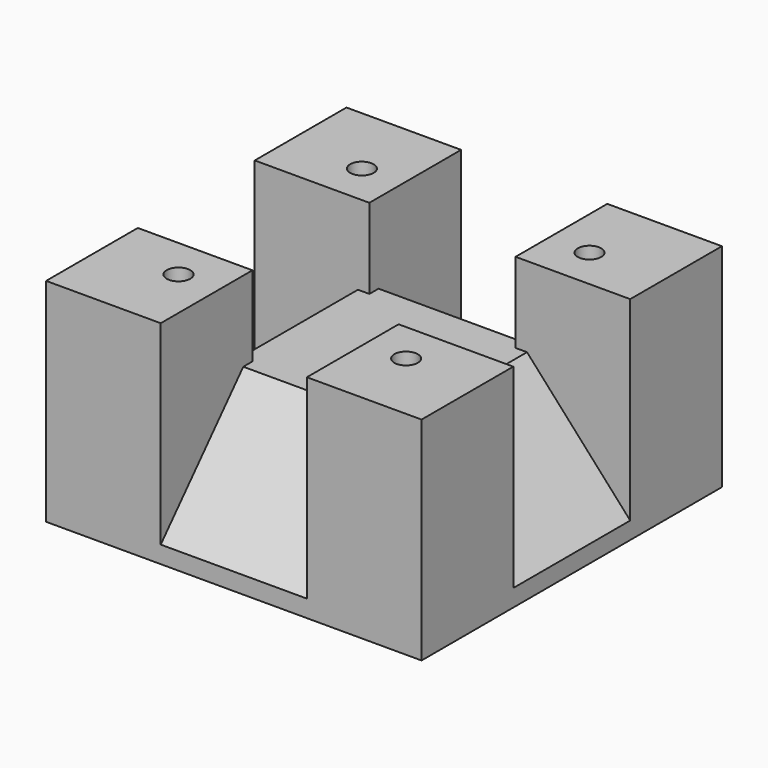
from build123d import *

# Parameters (mm, degrees)
SKETCH_W        = 65.5
SKETCH_H        = 65.5
PAD_DEPTH       = 37
SKETCH001_W     = 25.5
SKETCH001_H     = 14
POCKET_DEPTH    = 65.501
SKETCH002_W     = 25.5
SKETCH002_H     = 14
POCKET001_DEPTH = 65.501
CHAMFER_1_SIZE2 = 18
CHAMFER_1_SIZE  = 20
CHAMFER_2_SIZE2 = 18
CHAMFER_2_SIZE  = 20
CHAMFER_3_SIZE2 = 18
CHAMFER_3_SIZE  = 20
CHAMFER_4_SIZE2 = 18
CHAMFER_4_SIZE  = 20
SKETCH003_R     = 5
POCKET002_DEPTH = 2.5
SKETCH004_R     = 3.5
SKETCH004_R_2   = 2.45
PAD001_DEPTH    = 2
SKETCH005_R     = 2
POCKET003_DEPTH = 10
CHAMFER001_SIZE = 0.25
POCKET004_DEPTH = 3
SKETCH007_R     = 2.05
POCKET005_DEPTH = 12
POCKET006_DEPTH = 1.575
SKETCH009_R     = 2
POCKET007_DEPTH = 5


with BuildPart() as part:
    # Sketch → Pad (new body)
    with BuildSketch(Plane.XY):
        Rectangle(SKETCH_W, SKETCH_H)
    extrude(amount=PAD_DEPTH)

    # Sketch001 (on Face3 of Pad) → Pocket (cut, through all)
    with BuildSketch(Plane.XZ.offset(32.75)):
        with Locations((0, 30)):
            Rectangle(SKETCH001_W, SKETCH001_H)
    extrude(amount=-POCKET_DEPTH, mode=Mode.SUBTRACT)

    # Sketch002 (on Face9 of Pocket) → Pocket001 (cut, through all)
    with BuildSketch(Plane(origin=(-32.75, 0, 0), x_dir=(0, -1, 0), z_dir=(-1, 0, 0))):
        with Locations((0, 30)):
            Rectangle(SKETCH002_W, SKETCH002_H)
    extrude(amount=-POCKET001_DEPTH, mode=Mode.SUBTRACT)

    # Chamfer 1
    chamfer_1_edges = [part.edges().sort_by_distance(p)[0] for p in [
        (0, 32.75, 23),
    ]]
    chamfer_1_side = part.faces().sort_by_distance((0, 32.75, 16.513308))[0]
    chamfer(chamfer_1_edges, length=CHAMFER_1_SIZE, length2=CHAMFER_1_SIZE2, reference=chamfer_1_side)

    # Chamfer 2
    chamfer_2_edges = [part.edges().sort_by_distance(p)[0] for p in [
        (0, -32.75, 23),
    ]]
    chamfer_2_side = part.faces().sort_by_distance((0, -32.75, 16.513308))[0]
    chamfer(chamfer_2_edges, length=CHAMFER_2_SIZE, length2=CHAMFER_2_SIZE2, reference=chamfer_2_side)

    # Chamfer 3
    chamfer_3_edges = [part.edges().sort_by_distance(p)[0] for p in [
        (-32.75, 0, 23),
    ]]
    chamfer_3_side = part.faces().sort_by_distance((-32.75, 0, 16.513308))[0]
    chamfer(chamfer_3_edges, length=CHAMFER_3_SIZE, length2=CHAMFER_3_SIZE2, reference=chamfer_3_side)

    # Chamfer 4
    chamfer_4_edges = [part.edges().sort_by_distance(p)[0] for p in [
        (32.75, 0, 23),
    ]]
    chamfer_4_side = part.faces().sort_by_distance((32.75, 0, 16.513308))[0]
    chamfer(chamfer_4_edges, length=CHAMFER_4_SIZE, length2=CHAMFER_4_SIZE2, reference=chamfer_4_side)

    # Sketch003 (on Face7 of Chamfer) → Pocket002 (cut)
    with BuildSketch(Plane(origin=(0, 0, 0), x_dir=(1, 0, 0), z_dir=(0, 0, -1))):
        with Locations((-19.85, 20)):
            Circle(SKETCH003_R)
        with Locations((19.85, 20)):
            Circle(SKETCH003_R)
        with Locations((-19.85, -20)):
            Circle(SKETCH003_R)
        with Locations((19.85, -20)):
            Circle(SKETCH003_R)
    extrude(amount=-POCKET002_DEPTH, mode=Mode.SUBTRACT)

    # Sketch004 (on Face7 of Pocket002) → Pad001 (join)
    with BuildSketch(Plane(origin=(0, 0, 0), x_dir=(1, 0, 0), z_dir=(0, 0, -1))):
        with Locations((-19.85, 0)):
            Circle(SKETCH004_R)
        with Locations((19.85, 0)):
            Circle(SKETCH004_R_2)
    extrude(amount=PAD001_DEPTH)

    # Sketch005 (on Face34 of Pad001) → Pocket003 (cut)
    with BuildSketch(Plane(origin=(0, 0, -2), x_dir=(1, 0, 0), z_dir=(0, 0, -1))):
        with Locations((-19.85, 0)):
            Circle(SKETCH005_R)
        with Locations((19.85, 0)):
            Circle(SKETCH005_R)
    extrude(amount=-POCKET003_DEPTH, mode=Mode.SUBTRACT)

    # Chamfer001
    chamfer001_edges = [part.edges().sort_by_distance(p)[0] for p in [
        (-23.35, 0, -2),
        (17.4, 0, -2),
    ]]
    chamfer(chamfer001_edges, length=CHAMFER001_SIZE)

    # Sketch006 (on Face36 of Chamfer001) → Pocket004 (cut)
    with BuildSketch(Plane(origin=(0, 0, 8), x_dir=(1, 0, 0), z_dir=(0, 0, -1))):
        Polygon((-19.85, -4), (-16.385898, -2), (-16.385898, 2), (-19.85, 4), (-23.314102, 2), (-23.314102, -2), align=None)
        Polygon((19.85, -4), (23.314102, -2), (23.314102, 2), (19.85, 4), (16.385898, 2), (16.385898, -2), align=None)
    extrude(amount=POCKET004_DEPTH, mode=Mode.SUBTRACT)

    # Sketch007 (on Face22 of Pocket004) → Pocket005 (cut)
    with BuildSketch(Plane.XY.offset(37)):
        with Locations((-19.85, 20)):
            Circle(SKETCH007_R)
        with Locations((19.85, 20)):
            Circle(SKETCH007_R)
        with Locations((-19.85, -20)):
            Circle(SKETCH007_R)
        with Locations((19.85, -20)):
            Circle(SKETCH007_R)
    extrude(amount=-POCKET005_DEPTH, mode=Mode.SUBTRACT)

    # Sketch008 (on DatumPlane) → Pocket006 (cut, symmetric)
    with BuildSketch(Plane.XY.offset(32)):
        Polygon((-19.85, 16), (-16.385898, 18), (-16.385898, 22), (-19.85, 24), (-23.314102, 22), (-23.314102, 18), align=None)
        Polygon((-19.85, -24), (-16.385898, -22), (-16.385898, -18), (-19.85, -16), (-23.314102, -18), (-23.314102, -22), align=None)
        Polygon((19.85, 16), (23.314102, 18), (23.314102, 22), (19.85, 24), (16.385898, 22), (16.385898, 18), align=None)
        Polygon((19.85, -24), (23.314102, -22), (23.314102, -18), (19.85, -16), (16.385898, -18), (16.385898, -22), align=None)
    extrude(amount=POCKET006_DEPTH, both=True, mode=Mode.SUBTRACT)

    # Sketch009 (on Face104 of Pocket006) → Pocket007 (cut)
    with BuildSketch(Plane(origin=(0, 0, 8), x_dir=(1, 0, 0), z_dir=(0, 0, -1))):
        with Locations((-19.85, 0)):
            Circle(SKETCH009_R)
        with Locations((19.85, 0)):
            Circle(SKETCH009_R)
    extrude(amount=-POCKET007_DEPTH, mode=Mode.SUBTRACT)


solid = part.part
